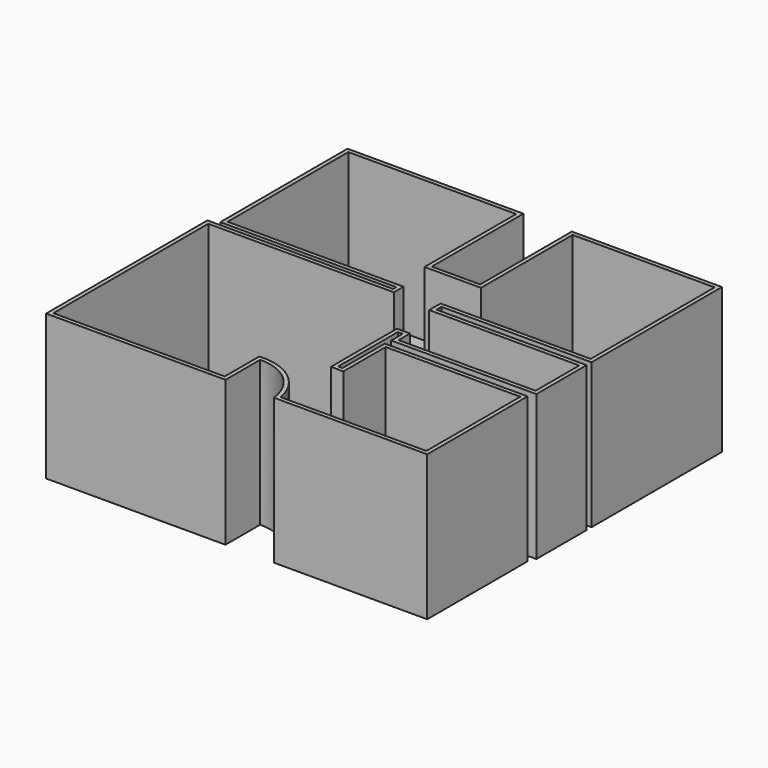
from build123d import *

# Parameters (mm, degrees)
F1_DEPTH = 2743.2
F2_T     = -76.2


with BuildPart() as f1:
    # F0 (on Top) → F1 (new body)
    with BuildSketch(Plane.XY):
        with BuildLine():
            Line((-1626.9564836884, 3765.2100971341), (-1809.8364836884, 3765.2100971341))
            Line((-1809.8364836884, 3765.2100971341), (-1809.8364836884, -44.7899028659))
            Line((-1809.8364836884, -44.7899028659), (1578.2561302185, -44.7899028659))
            Line((1578.2561302185, -44.7899028659), (1578.2561302185, 775.5651473999))
            ThreePointArc((1578.2561302185, 775.5651473999), (2193.7331910054, 541.8094585642), (2492.6561302185, -44.7899028659))
            Line((2492.6561302185, -44.7899028659), (5388.2561302185, -44.7899028659))
            Line((5388.2561302185, -44.7899028659), (5388.2561302185, 1326.8100971341))
            Line((5388.2561302185, 1326.8100971341), (5388.2561302185, 2325.4332542419))
            Line((5388.2561302185, 2325.4332542419), (2692.0549869537, 2325.4332542419))
            Line((2692.0549869537, 2325.4332542419), (2692.0549869537, 1326.8100971341))
            Line((2692.0549869537, 1326.8100971341), (2609.7635163116, 1326.8100971341))
            Line((2609.7635163116, 1326.8100971341), (2609.7635163116, 2733.9606285095))
            Line((2609.7635163116, 2733.9606285095), (2703.3452987671, 2733.9606285095))
            Line((2703.3452987671, 2733.9606285095), (2703.3452987671, 2462.8975391388))
            Line((2703.3452987671, 2462.8975391388), (5444.4035163116, 2462.8975391388))
            Line((5444.4035163116, 2462.8975391388), (5444.4035163116, 2733.9606285095))
            Line((5444.4035163116, 2733.9606285095), (5444.4035163116, 3648.3606285095))
            Line((5444.4035163116, 3648.3606285095), (2609.7635163116, 3648.3606285095))
            Line((2609.7635163116, 3648.3606285095), (2609.7635163116, 3765.2100971341))
            Line((2609.7635163116, 3765.2100971341), (5444.4035163116, 3765.2100971341))
            Line((5444.4035163116, 3765.2100971341), (5444.4035163116, 6843.6900971341))
            Line((5444.4035163116, 6843.6900971341), (2609.7635163116, 6843.6900971341))
            Line((2609.7635163116, 6843.6900971341), (2609.7635163116, 4679.6100971341))
            Line((2609.7635163116, 4679.6100971341), (1695.3635163116, 4679.6100971341))
            Line((1695.3635163116, 4679.6100971341), (1695.3635163116, 6843.6900971341))
            Line((1695.3635163116, 6843.6900971341), (-1626.9564836884, 6843.6900971341))
            Line((-1626.9564836884, 6843.6900971341), (-1626.9564836884, 3841.4100971341))
            Line((-1626.9564836884, 3841.4100971341), (1695.3635163116, 3841.4100971341))
            Line((1695.3635163116, 3841.4100971341), (1695.3635163116, 3765.2100971341))
            Line((1695.3635163116, 3765.2100971341), (-1626.9564836884, 3765.2100971341))
        make_face()
    extrude(amount=F1_DEPTH)

    # F2
    f2_openings = [f1.faces().sort_by_distance(p)[0] for p in [
        (1807.109587, 3326.533844, 2743.2),
    ]]
    offset(amount=F2_T, openings=f2_openings, kind=Kind.INTERSECTION)


solid = f1.part
